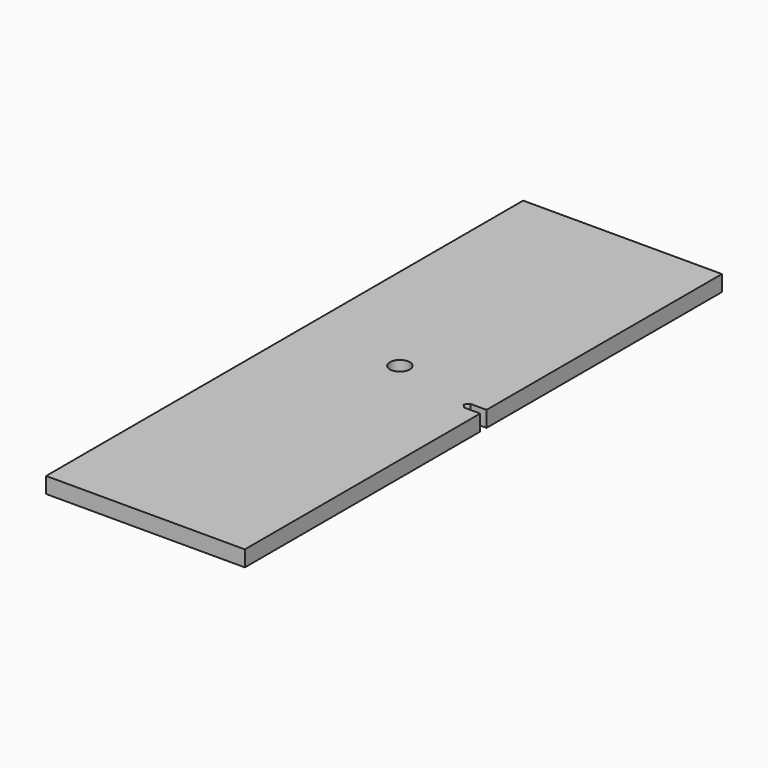
from build123d import *

# Parameters (mm, degrees)
F0_R     = 2.5
F1_DEPTH = 4


with BuildPart() as f1:
    # F0 (on Top) → F1 (new body)
    with BuildSketch(Plane.XY):
        Polygon((-25, -75), (25, -75), (25, -1), (21, -1), (20, 0), (21, 1), (25, 1), (25, 75), (-25, 75), align=None)
        with Locations((0, 5)):
            Circle(F0_R, mode=Mode.SUBTRACT)
    extrude(amount=F1_DEPTH)


solid = f1.part
